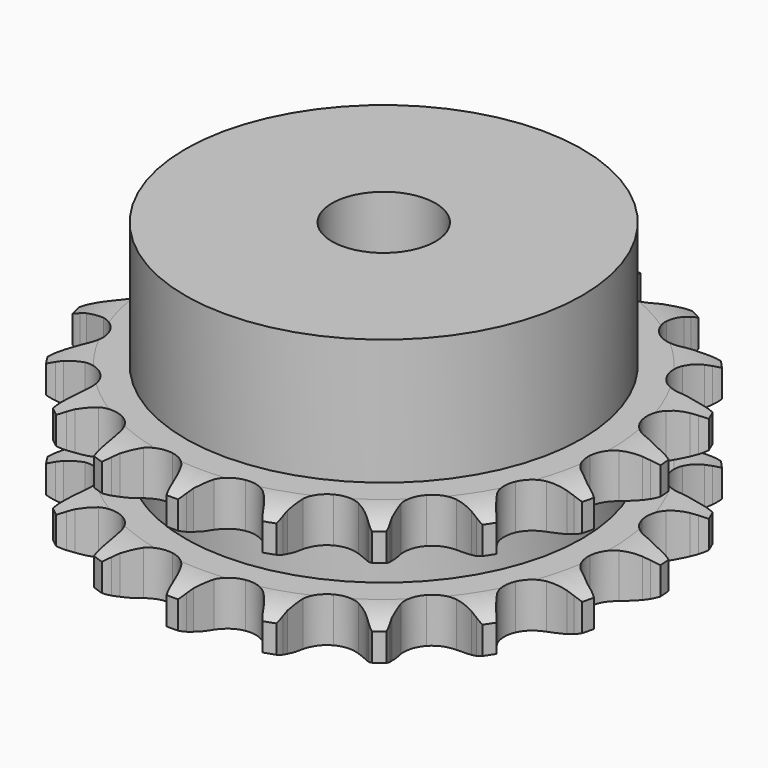
from build123d import *

# Parameters (mm, degrees)
PAD_DEPTH         = 15.4
SKETCH001_R       = 23
PAD001_DEPTH      = 30
SKETCH002_R       = 6
POCKET_DEPTH      = 0.001
POCKET_DEPTH_BACK = 30.001


with BuildPart() as part:
    # Sprocket → Pad (new body)
    with BuildSketch(Plane.XY):
        with BuildLine():
            ThreePointArc((-5.227902, 31.3291), (-4.494074, 30.495711), (-3.952481, 29.52632))
            Line((-3.952481, 29.52632), (-3.648014, 28.812689))
            ThreePointArc((-3.648014, 28.812689), (-3.155091, 27.839756), (-2.538979, 26.93977))
            ThreePointArc((-2.538979, 26.93977), (-1.411489, 26.030599), (0, 25.705755))
            ThreePointArc((0, 25.705755), (1.411489, 26.030599), (2.538979, 26.93977))
            ThreePointArc((2.538979, 26.93977), (3.155091, 27.839756), (3.648014, 28.812689))
            Line((3.648014, 28.812689), (3.952481, 29.52632))
            ThreePointArc((3.952481, 29.52632), (4.494074, 30.495711), (5.227902, 31.3291))
            ThreePointArc((5.227902, 31.3291), (5.651368, 30.302593), (5.848856, 29.209872))
            Line((5.848856, 29.209872), (5.90511, 28.436046))
            ThreePointArc((5.90511, 28.436046), (6.055414, 27.355778), (6.345919, 26.304504))
            ThreePointArc((6.345919, 26.304504), (7.117111, 25.078499), (8.346645, 24.312946))
            ThreePointArc((8.346645, 24.312946), (9.787132, 24.161879), (11.148739, 24.655694))
            Line((11.148739, 24.655694), (12.805819, 26.067029))
            ThreePointArc((12.805819, 26.067029), (13.058934, 26.361151), (13.325505, 26.643134))
            ThreePointArc((13.325505, 26.643134), (14.152514, 27.384146), (15.117182, 27.934106))
            ThreePointArc((15.117182, 27.934106), (15.184397, 26.825718), (15.016378, 25.72808))
            Line((15.016378, 25.72808), (14.818324, 24.977916))
            ThreePointArc((14.818324, 24.977916), (14.609722, 23.907377), (14.543138, 22.818737))
            ThreePointArc((14.543138, 22.818737), (14.874461, 21.408755), (15.788801, 20.285452))
            ThreePointArc((15.788801, 20.285452), (17.102188, 19.674845), (18.55036, 19.699791))
            Line((18.55036, 19.699791), (20.575915, 20.496603))
            ThreePointArc((20.575915, 20.496603), (20.910817, 20.692602), (21.254504, 20.872751))
            ThreePointArc((21.254504, 20.872751), (22.277309, 21.305083), (23.368281, 21.512018))
            ThreePointArc((23.368281, 21.512018), (23.071961, 20.441861), (22.556643, 19.458251))
            Line((22.556643, 19.458251), (22.125743, 18.813042))
            ThreePointArc((22.125743, 18.813042), (21.580839, 17.86824), (21.164382, 16.860206))
            ThreePointArc((21.164382, 16.860206), (21.019933, 15.419039), (21.519996, 14.059715))
            ThreePointArc((21.519996, 14.059715), (22.563956, 13.055737), (23.941762, 12.609109))
            Line((23.941762, 12.609109), (26.116291, 12.705052))
            ThreePointArc((26.116291, 12.705052), (26.496688, 12.781689), (26.880248, 12.840482))
            ThreePointArc((26.880248, 12.840482), (27.988012, 12.917285), (29.087064, 12.758769))
            ThreePointArc((29.087064, 12.758769), (28.45932, 11.842811), (27.652546, 11.079819))
            Line((27.652546, 11.079819), (27.035494, 10.609482))
            ThreePointArc((27.035494, 10.609482), (26.213338, 9.892802), (25.492138, 9.074609))
            ThreePointArc((25.492138, 9.074609), (24.887569, 7.758432), (24.919166, 6.31039))
            ThreePointArc((24.919166, 6.31039), (25.580569, 5.021836), (26.738703, 4.152036))
            Line((26.738703, 4.152036), (28.826562, 3.536711))
            ThreePointArc((28.826562, 3.536711), (29.211232, 3.485681), (29.5931, 3.416747))
            ThreePointArc((29.5931, 3.416747), (30.66578, 3.129698), (31.653812, 2.62291))
            ThreePointArc((31.653812, 2.62291), (30.76267, 1.960409), (29.751866, 1.500717))
            Line((29.751866, 1.500717), (29.015529, 1.256221))
            ThreePointArc((29.015529, 1.256221), (28.005215, 0.845326), (27.057424, 0.305639))
            ThreePointArc((27.057424, 0.305639), (26.058251, -0.742922), (25.617957, -2.122764))
            ThreePointArc((25.617957, -2.122764), (25.825131, -3.556258), (26.63809, -4.754976))
            Line((26.63809, -4.754976), (28.413028, -6.014887))
            ThreePointArc((28.413028, -6.014887), (28.760286, -6.188054), (29.09908, -6.377246))
            ThreePointArc((29.09908, -6.377246), (30.020435, -6.99704), (30.790378, -7.797183))
            ThreePointArc((30.790378, -7.797183), (29.732408, -8.134434), (28.62711, -8.241011))
            Line((28.62711, -8.241011), (27.851282, -8.233171))
            ThreePointArc((27.851282, -8.233171), (26.762292, -8.293754), (25.690619, -8.496453))
            ThreePointArc((25.690619, -8.496453), (24.405117, -9.163768), (23.540645, -10.325884))
            ThreePointArc((23.540645, -10.325884), (23.271139, -11.748977), (23.650826, -13.146712))
            Line((23.650826, -13.146712), (24.920501, -14.914679))
            ThreePointArc((24.920501, -14.914679), (25.192716, -15.191218), (25.451723, -15.480165))
            ThreePointArc((25.451723, -15.480165), (26.12191, -16.365541), (26.59033, -17.372329))
            ThreePointArc((26.59033, -17.372329), (25.480177, -17.347785), (24.400163, -17.089698))
            Line((24.400163, -17.089698), (23.668916, -16.830372))
            ThreePointArc((23.668916, -16.830372), (22.619259, -16.534078), (21.539837, -16.377822))
            ThreePointArc((21.539837, -16.377822), (20.10731, -16.591578), (18.912338, -17.410034))
            ThreePointArc((18.912338, -17.410034), (18.195358, -18.668511), (18.100629, -20.113797))
            Line((18.100629, -20.113797), (18.727451, -22.198234))
            ThreePointArc((18.727451, -22.198234), (18.895125, -22.548177), (19.046277, -22.905568))
            ThreePointArc((19.046277, -22.905568), (19.39267, -23.960581), (19.508806, -25.064915))
            ThreePointArc((19.508806, -25.064915), (18.466774, -24.681234), (17.529079, -24.086451))
            Line((17.529079, -24.086451), (16.921656, -23.603741))
            ThreePointArc((16.921656, -23.603741), (16.025079, -22.982678), (15.054879, -22.4844))
            ThreePointArc((15.054879, -22.4844), (13.630563, -22.221434), (12.234587, -22.607537))
            ThreePointArc((12.234587, -22.607537), (11.147828, -23.565023), (10.588948, -24.901241))
            Line((10.588948, -24.901241), (10.504992, -27.076266))
            ThreePointArc((10.504992, -27.076266), (10.549954, -27.461692), (10.576872, -27.848797))
            ThreePointArc((10.576872, -27.848797), (10.561934, -28.95912), (10.313201, -30.041327))
            ThreePointArc((10.313201, -30.041327), (9.45221, -29.340089), (8.758447, -28.473063))
            Line((8.758447, -28.473063), (8.340672, -27.819278))
            ThreePointArc((8.340672, -27.819278), (7.694333, -26.940747), (6.938491, -26.154444))
            ThreePointArc((6.938491, -26.154444), (5.676734, -25.443252), (4.231028, -25.355162))
            ThreePointArc((4.231028, -25.355162), (2.892257, -25.907899), (1.92979, -26.990249))
            Line((1.92979, -26.990249), (1.144153, -29.020164))
            ThreePointArc((1.144153, -29.020164), (1.061531, -29.399306), (0.961298, -29.774177))
            ThreePointArc((0.961298, -29.774177), (0.586648, -30.819489), (0, -31.762296))
            ThreePointArc((0, -31.762296), (-0.586648, -30.819489), (-0.961298, -29.774177))
            Line((-0.961298, -29.774177), (-1.144153, -29.020164))
            ThreePointArc((-1.144153, -29.020164), (-1.470213, -27.979369), (-1.92979, -26.990249))
            ThreePointArc((-1.92979, -26.990249), (-2.892257, -25.907899), (-4.231028, -25.355162))
            ThreePointArc((-4.231028, -25.355162), (-5.676734, -25.443252), (-6.938491, -26.154444))
            Line((-6.938491, -26.154444), (-8.340672, -27.819278))
            ThreePointArc((-8.340672, -27.819278), (-8.541924, -28.151049), (-8.758447, -28.473063))
            ThreePointArc((-8.758447, -28.473063), (-9.45221, -29.340089), (-10.313201, -30.041327))
            ThreePointArc((-10.313201, -30.041327), (-10.561934, -28.95912), (-10.576872, -27.848797))
            Line((-10.576872, -27.848797), (-10.504992, -27.076266))
            ThreePointArc((-10.504992, -27.076266), (-10.47544, -25.985992), (-10.588948, -24.901241))
            ThreePointArc((-10.588948, -24.901241), (-11.147828, -23.565023), (-12.234587, -22.607537))
            ThreePointArc((-12.234587, -22.607537), (-13.630563, -22.221434), (-15.054879, -22.4844))
            Line((-15.054879, -22.4844), (-16.921656, -23.603741))
            ThreePointArc((-16.921656, -23.603741), (-17.21973, -23.852189), (-17.529079, -24.086451))
            ThreePointArc((-17.529079, -24.086451), (-18.466774, -24.681234), (-19.508806, -25.064915))
            ThreePointArc((-19.508806, -25.064915), (-19.39267, -23.960581), (-19.046277, -22.905568))
            Line((-19.046277, -22.905568), (-18.727451, -22.198234))
            ThreePointArc((-18.727451, -22.198234), (-18.345489, -21.17663), (-18.100629, -20.113797))
            ThreePointArc((-18.100629, -20.113797), (-18.195358, -18.668511), (-18.912338, -17.410034))
            ThreePointArc((-18.912338, -17.410034), (-20.10731, -16.591578), (-21.539837, -16.377822))
            Line((-21.539837, -16.377822), (-23.668916, -16.830372))
            ThreePointArc((-23.668916, -16.830372), (-24.031511, -16.968575), (-24.400163, -17.089698))
            ThreePointArc((-24.400163, -17.089698), (-25.480177, -17.347785), (-26.59033, -17.372329))
            ThreePointArc((-26.59033, -17.372329), (-26.12191, -16.365541), (-25.451723, -15.480165))
            Line((-25.451723, -15.480165), (-24.920501, -14.914679))
            ThreePointArc((-24.920501, -14.914679), (-24.227521, -14.072451), (-23.650826, -13.146712))
            ThreePointArc((-23.650826, -13.146712), (-23.271139, -11.748977), (-23.540645, -10.325884))
            ThreePointArc((-23.540645, -10.325884), (-24.405117, -9.163768), (-25.690619, -8.496453))
            Line((-25.690619, -8.496453), (-27.851282, -8.233171))
            ThreePointArc((-27.851282, -8.233171), (-28.239105, -8.246152), (-28.62711, -8.241011))
            ThreePointArc((-28.62711, -8.241011), (-29.732408, -8.134434), (-30.790378, -7.797183))
            ThreePointArc((-30.790378, -7.797183), (-30.020435, -6.99704), (-29.09908, -6.377246))
            Line((-29.09908, -6.377246), (-28.413028, -6.014887))
            ThreePointArc((-28.413028, -6.014887), (-27.484124, -5.443304), (-26.63809, -4.754976))
            ThreePointArc((-26.63809, -4.754976), (-25.825131, -3.556258), (-25.617957, -2.122764))
            ThreePointArc((-25.617957, -2.122764), (-26.058251, -0.742922), (-27.057424, 0.305639))
            Line((-27.057424, 0.305639), (-29.015529, 1.256221))
            ThreePointArc((-29.015529, 1.256221), (-29.386553, 1.36987), (-29.751866, 1.500717))
            ThreePointArc((-29.751866, 1.500717), (-30.76267, 1.960409), (-31.653812, 2.62291))
            ThreePointArc((-31.653812, 2.62291), (-30.66578, 3.129698), (-29.5931, 3.416747))
            Line((-29.5931, 3.416747), (-28.826562, 3.536711))
            ThreePointArc((-28.826562, 3.536711), (-27.762396, 3.77571), (-26.738703, 4.152036))
            ThreePointArc((-26.738703, 4.152036), (-25.580569, 5.021836), (-24.919166, 6.31039))
            ThreePointArc((-24.919166, 6.31039), (-24.887569, 7.758432), (-25.492138, 9.074609))
            Line((-25.492138, 9.074609), (-27.035494, 10.609482))
            ThreePointArc((-27.035494, 10.609482), (-27.349513, 10.837445), (-27.652546, 11.079819))
            ThreePointArc((-27.652546, 11.079819), (-28.45932, 11.842811), (-29.087064, 12.758769))
            ThreePointArc((-29.087064, 12.758769), (-27.988012, 12.917285), (-26.880248, 12.840482))
            Line((-26.880248, 12.840482), (-26.116291, 12.705052))
            ThreePointArc((-26.116291, 12.705052), (-25.032182, 12.585567), (-23.941762, 12.609109))
            ThreePointArc((-23.941762, 12.609109), (-22.563956, 13.055737), (-21.519996, 14.059715))
            ThreePointArc((-21.519996, 14.059715), (-21.019933, 15.419039), (-21.164382, 16.860206))
            Line((-21.164382, 16.860206), (-22.125743, 18.813042))
            ThreePointArc((-22.125743, 18.813042), (-22.348728, 19.130614), (-22.556643, 19.458251))
            ThreePointArc((-22.556643, 19.458251), (-23.071961, 20.441861), (-23.368281, 21.512018))
            ThreePointArc((-23.368281, 21.512018), (-22.277309, 21.305083), (-21.254504, 20.872751))
            Line((-21.254504, 20.872751), (-20.575915, 20.496603))
            ThreePointArc((-20.575915, 20.496603), (-19.589342, 20.031582), (-18.55036, 19.699791))
            ThreePointArc((-18.55036, 19.699791), (-17.102188, 19.674845), (-15.788801, 20.285452))
            ThreePointArc((-15.788801, 20.285452), (-14.874461, 21.408755), (-14.543138, 22.818737))
            Line((-14.543138, 22.818737), (-14.818324, 24.977916))
            ThreePointArc((-14.818324, 24.977916), (-14.926112, 25.350685), (-15.016378, 25.72808))
            ThreePointArc((-15.016378, 25.72808), (-15.184397, 26.825718), (-15.117182, 27.934106))
            ThreePointArc((-15.117182, 27.934106), (-14.152514, 27.384146), (-13.325505, 26.643134))
            Line((-13.325505, 26.643134), (-12.805819, 26.067029))
            ThreePointArc((-12.805819, 26.067029), (-12.023694, 25.306865), (-11.148739, 24.655694))
            ThreePointArc((-11.148739, 24.655694), (-9.787132, 24.161879), (-8.346645, 24.312946))
            ThreePointArc((-8.346645, 24.312946), (-7.117111, 25.078499), (-6.345919, 26.304504))
            Line((-6.345919, 26.304504), (-5.90511, 28.436046))
            ThreePointArc((-5.90511, 28.436046), (-5.88602, 28.823616), (-5.848856, 29.209872))
            ThreePointArc((-5.848856, 29.209872), (-5.651368, 30.302593), (-5.227902, 31.3291))
        make_face()
    extrude(amount=PAD_DEPTH)

    # Sketch → Groove (revolve, cut)
    with BuildSketch(Plane.XZ):
        with BuildLine():
            ThreePointArc((26.291101, 0), (28.527169, 0.253206), (30.65, 1))
            Line((30.65, 1), (30.65, 4.2))
            ThreePointArc((30.65, 4.2), (28.527169, 4.946794), (26.291101, 5.2))
            Line((23, 5.2), (26.291101, 5.2))
            Line((23, 10.2), (23, 5.2))
            Line((26.291101, 10.2), (23, 10.2))
            ThreePointArc((26.291101, 10.2), (28.527169, 10.453206), (30.65, 11.2))
            Line((30.65, 11.2), (30.65, 14.4))
            ThreePointArc((30.65, 14.4), (28.527169, 15.146794), (26.291101, 15.4))
            Line((26.291101, 15.4), (36.291101, 15.4))
            Line((36.291101, 15.4), (36.291101, 0))
            Line((26.291101, 0), (36.291101, 0))
        make_face()
    revolve(axis=Axis((0, 0, 0), (0, 0, 1)), mode=Mode.SUBTRACT)

    # Sketch001 → Pad001 (join)
    with BuildSketch(Plane.XY):
        Circle(SKETCH001_R)
    extrude(amount=PAD001_DEPTH)

    # Sketch002 → Pocket (cut, two sides)
    with BuildSketch(Plane.XY) as pocket_sk:
        Circle(SKETCH002_R)
    extrude(amount=-POCKET_DEPTH, mode=Mode.SUBTRACT)
    extrude(pocket_sk.sketch, amount=POCKET_DEPTH_BACK, mode=Mode.SUBTRACT)


solid = part.part
